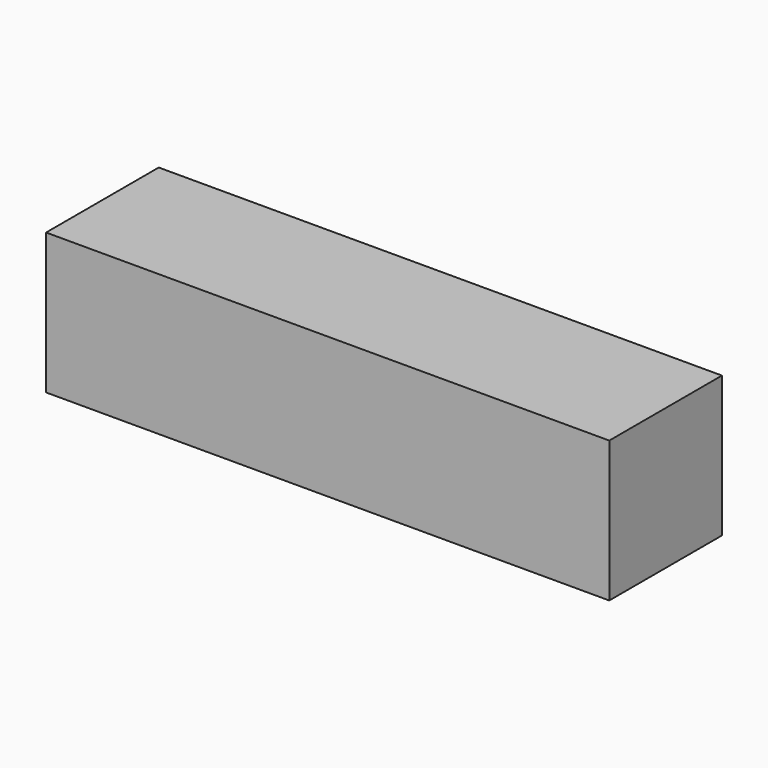
from build123d import *

# Parameters (mm, degrees)
BOX_W        = 10
BOX_H        = 10
BOX_DEPTH    = 10
BOX001_W     = 10
BOX001_H     = 10
BOX001_DEPTH = 10
BOX002_W     = 10
BOX002_H     = 10
BOX002_DEPTH = 10
BOX003_W     = 10
BOX003_H     = 10
BOX003_DEPTH = 10


with BuildPart() as cubo:
    # Box → Box (new body)
    with BuildSketch(Plane.XY):
        with Locations((5, 5)):
            Rectangle(BOX_W, BOX_H)
    extrude(amount=BOX_DEPTH)


with BuildPart() as cubo001:
    # Box001 → Box001 (new body)
    with BuildSketch(Plane(origin=(10, 0, 0), x_dir=(1, 0, 0), z_dir=(0, 0, 1))):
        with Locations((5, 5)):
            Rectangle(BOX001_W, BOX001_H)
    extrude(amount=BOX001_DEPTH)


with BuildPart() as cubo002:
    # Box002 → Box002 (new body)
    with BuildSketch(Plane(origin=(20, 0, 0), x_dir=(1, 0, 0), z_dir=(0, 0, 1))):
        with Locations((5, 5)):
            Rectangle(BOX002_W, BOX002_H)
    extrude(amount=BOX002_DEPTH)


with BuildPart() as fusion:
    # Box003 → Box003 (new body)
    with BuildSketch(Plane(origin=(30, 0, 0), x_dir=(1, 0, 0), z_dir=(0, 0, 1))):
        with Locations((5, 5)):
            Rectangle(BOX003_W, BOX003_H)
    extrude(amount=BOX003_DEPTH)

    # Fusion: union Cubo, Cubo001, Cubo002
    add(cubo.part)
    add(cubo001.part)
    add(cubo002.part)


with BuildPart() as fusion_1:
    # Fusion placement: moved
    add(fusion.part.moved(Location((0, -100, 0))))


solid = fusion_1.part
